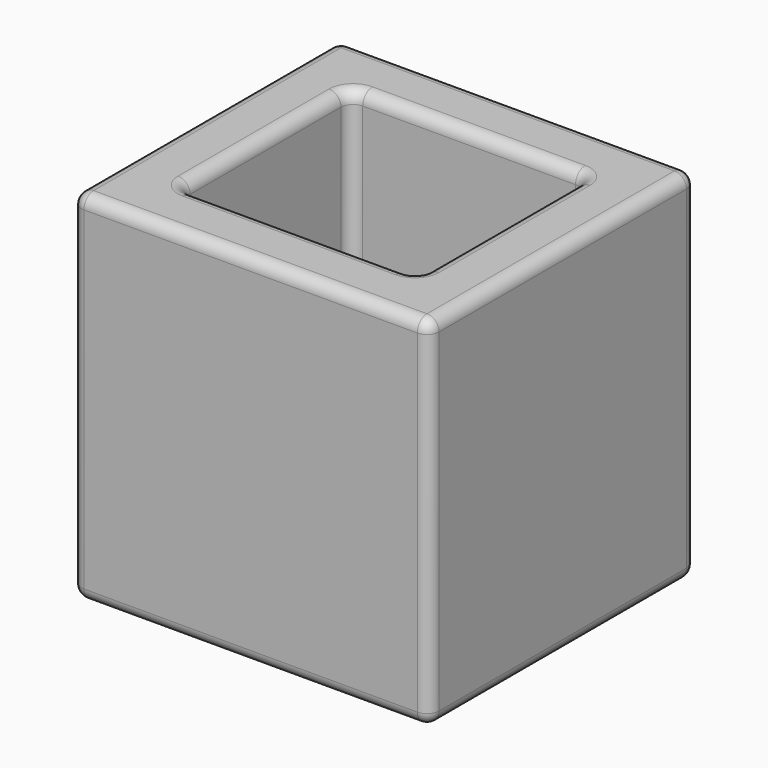
from build123d import *

# Parameters (mm, degrees)
F0_W     = 150.6082415581
F0_H     = 150.7464423776
F1_DEPTH = 140.462
F2_T     = -25.4
F3_DEPTH = 25.4
F5_R     = 5.08


with BuildPart() as f1:
    # F0 (on Front) → F1 (new body)
    with BuildSketch(Plane.XZ):
        with Locations((0, -0.6814859807)):
            Rectangle(F0_W, F0_H)
    extrude(amount=F1_DEPTH)

    # F2
    f2_openings = [f1.faces().sort_by_distance(p)[0] for p in [
        (0, -70.231, 74.691735),
    ]]
    offset(amount=F2_T, openings=f2_openings)

    # F3 (add): a face of the model
    f3_faces = [f1.faces().sort_by_distance(p)[0] for p in [
        (0, -70.231, -50.6547071695),
    ]]
    extrude(f3_faces, amount=F3_DEPTH)

    # F5
    f5_edges = [f1.edges().sort_by_distance(p)[0] for p in [
        (0, -25.4, -25.254707),
        (49.904121, -70.231, -25.254707),
        (-49.904121, -70.231, -25.254707),
        (0, -115.062, -25.254707),
        (0, 0, 74.691735),
        (75.304121, -70.231, 74.691735),
        (0, -140.462, 74.691735),
        (-75.304121, -70.231, 74.691735),
        (49.904121, -70.231, 74.691735),
        (0, -25.4, 74.691735),
        (-49.904121, -70.231, 74.691735),
        (0, -115.062, 74.691735),
        (-75.304121, -70.231, -76.054707),
        (75.304121, -70.231, -76.054707),
        (0, 0, -76.054707),
        (0, -140.462, -76.054707),
        (-75.304121, -140.462, -0.681486),
        (75.304121, -140.462, -0.681486),
        (75.304121, 0, -0.681486),
        (-75.304121, 0, -0.681486),
        (-49.904121, -25.4, 24.718514),
        (-49.904121, -115.062, 24.718514),
        (49.904121, -115.062, 24.718514),
        (49.904121, -25.4, 24.718514),
    ]]
    fillet(f5_edges, radius=F5_R)


solid = f1.part
